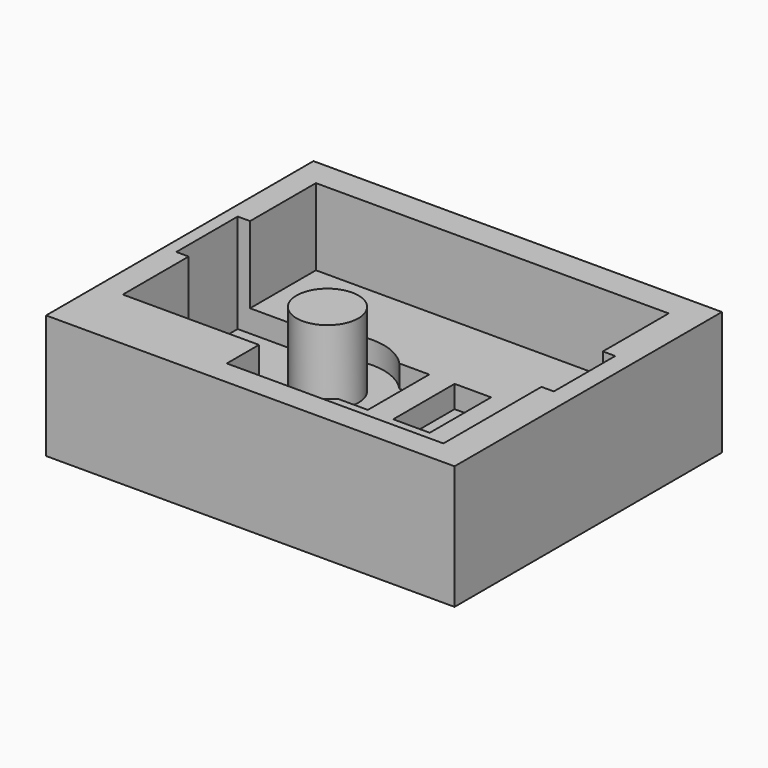
from build123d import *

# Parameters (mm, degrees)
PAD004_DEPTH             = 8.2
SKETCH014_W              = 28.5
SKETCH014_H              = 6.2
PAD005_DEPTH             = 1.8
SKETCH015_R              = 2.9
POCKET004_DEPTH          = 0.6
SKETCH016_W              = 2.05
SKETCH016_H              = 6.2
POCKET005_DEPTH          = 1.8
CLONE012_PLACEMENT_ANGLE = 180
BOX_W                    = 33
BOX_H                    = 27
BOX_DEPTH                = 10
SKETCH_W                 = 3
SKETCH_H                 = 3.25
POCKET009_DEPTH          = 6.2
SKETCH021_W              = 1
SKETCH021_H              = 6.2
POCKET010_DEPTH          = 8
SKETCH022_R              = 4.55
POCKET011_DEPTH          = 1.8
SKETCH023_R              = 2.5
PAD_DEPTH                = 6


with BuildPart() as body011:
    # Sketch013 → Pad004 (new body)
    with BuildSketch(Plane.XY):
        with BuildLine():
            Line((0, 0), (28.5, 0))
            Line((28.5, 0), (28.5, 22.75))
            Line((28.5, 22.75), (14, 22.75))
            Line((14, 22.75), (14, 22.5))
            ThreePointArc((11, 19.5), (13.12132, 20.37868), (14, 22.5))
            Line((11, 19.5), (0, 19.5))
            Line((0, 19.5), (0, 0))
        make_face()
    extrude(amount=PAD004_DEPTH)

    # Sketch014 (on Face9 of Pad004) → Pad005 (join)
    with BuildSketch(Plane.XY.offset(8.2)):
        with Locations((14.25, 9.75)):
            Rectangle(SKETCH014_W, SKETCH014_H)
    extrude(amount=PAD005_DEPTH)

    # Sketch015 (on Face11 of Pad005) → Pocket004 (cut)
    with BuildSketch(Plane.XY.offset(10)):
        with Locations((8.735056, 9.75)):
            Circle(SKETCH015_R)
    extrude(amount=-POCKET004_DEPTH, mode=Mode.SUBTRACT)

    # Sketch016 (on Face10 of Pocket004) → Pocket005 (cut)
    with BuildSketch(Plane.XY.offset(10)):
        with Locations((15.5, 9.75)):
            Rectangle(SKETCH016_W, SKETCH016_H)
        Polygon((21.525, 12.85), (21.525, 6.65), (19.475, 6.65), (19.475, 12.85), (20.5, 12.85), align=None)
        with Locations((25.5, 9.75)):
            Rectangle(SKETCH016_W, SKETCH016_H)
    extrude(amount=-POCKET005_DEPTH, mode=Mode.SUBTRACT)


with BuildPart() as body011_1:
    # Clone012 placement: moved
    add(body011.part.moved(Location((0, 22.75, 12))).rotate(Axis((0, 22.75, 12), (1, 0, 0)), CLONE012_PLACEMENT_ANGLE))


with BuildPart() as bottombed:
    # Box → Box (new body)
    with BuildSketch(Plane(origin=(-2, -2, 0), x_dir=(1, 0, 0), z_dir=(0, 0, 1))):
        with Locations((16.5, 13.5)):
            Rectangle(BOX_W, BOX_H)
    extrude(amount=BOX_DEPTH)

    # Cut: cut Body011
    add(body011_1.part, mode=Mode.SUBTRACT)

    # Sketch (on Face3 of BaseFeature001) → Pocket009 (cut)
    with BuildSketch(Plane.XY.offset(10)):
        with Locations((12.5, 1.625)):
            Rectangle(SKETCH_W, SKETCH_H)
    extrude(amount=-POCKET009_DEPTH, mode=Mode.SUBTRACT)

    # Sketch021 (on Face3 of Pocket009) → Pocket010 (cut)
    with BuildSketch(Plane.XY.offset(10)):
        with Locations((-0.5, 13)):
            Rectangle(SKETCH021_W, SKETCH021_H)
        with Locations((29, 13)):
            Rectangle(SKETCH021_W, SKETCH021_H)
    extrude(amount=-POCKET010_DEPTH, mode=Mode.SUBTRACT)

    # Sketch022 (on Face17 of Pocket010) → Pocket011 (cut)
    with BuildSketch(Plane.XY.offset(3.8)):
        with Locations((8.735056, 13)):
            Circle(SKETCH022_R)
    extrude(amount=-POCKET011_DEPTH, mode=Mode.SUBTRACT)

    # Sketch023 (on Face39 of Pocket011) → Pad (join)
    with BuildSketch(Plane.XY.offset(2)):
        with Locations((8.735056, 13)):
            Circle(SKETCH023_R)
    extrude(amount=PAD_DEPTH)


solid = bottombed.part
